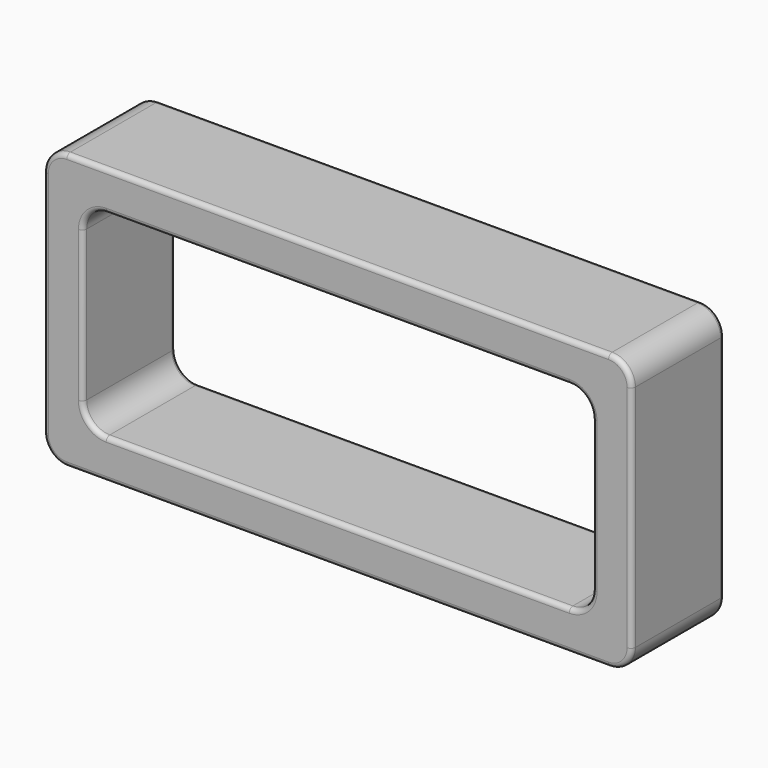
from build123d import *

# Parameters (mm, degrees)
F0_W     = 25.4
F0_H     = 11.9
F0_W_2   = 22
F0_H_2   = 8.5
F1_DEPTH = 5
F2_R     = 1
F3_R     = 0.2
F4_R     = 0.2


with BuildPart() as f1:
    # F0 (on Front) → F1 (new body)
    with BuildSketch(Plane.XZ):
        Rectangle(F0_W, F0_H)
        Rectangle(F0_W_2, F0_H_2, mode=Mode.SUBTRACT)
    extrude(amount=F1_DEPTH)

    # F2
    f2_edges = [f1.edges().sort_by_distance(p)[0] for p in [
        (-12.7, -2.5, 5.95),
        (12.7, -2.5, 5.95),
        (12.7, -2.5, -5.95),
        (-12.7, -2.5, -5.95),
        (-11, -2.5, 4.25),
        (-11, -2.5, -4.25),
        (11, -2.5, 4.25),
        (11, -2.5, -4.25),
    ]]
    fillet(f2_edges, radius=F2_R)

    # F3
    f3_edges = [f1.edges().sort_by_distance(p)[0] for p in [
        (0, 0, 5.95),
        (-12.407107, 0, 5.657107),
        (-12.7, 0, 0),
        (-12.407107, 0, -5.657107),
        (0, 0, -5.95),
        (12.407107, 0, -5.657107),
        (12.7, 0, 0),
        (12.407107, 0, 5.657107),
        (0, -5, -5.95),
        (12.7, -5, 0),
        (12.407107, -5, 5.657107),
        (0, -5, 5.95),
        (-12.407107, -5, 5.657107),
        (-12.7, -5, 0),
        (12.407107, -5, -5.657107),
        (-12.407107, -5, -5.657107),
    ]]
    fillet(f3_edges, radius=F3_R)

    # F4
    f4_edges = [f1.edges().sort_by_distance(p)[0] for p in [
        (0, 0, -4.25),
        (10.707107, 0, -3.957107),
        (11, 0, 0),
        (10.707107, 0, 3.957107),
        (0, 0, 4.25),
        (-11, 0, 0),
        (-10.707107, 0, -3.957107),
        (-10.707107, 0, 3.957107),
        (10.707107, -5, 3.957107),
        (10.707107, -5, -3.957107),
        (-10.707107, -5, -3.957107),
        (-11, -5, 0),
        (0, -5, 4.25),
        (11, -5, 0),
        (0, -5, -4.25),
    ]]
    fillet(f4_edges, radius=F4_R)


solid = f1.part
